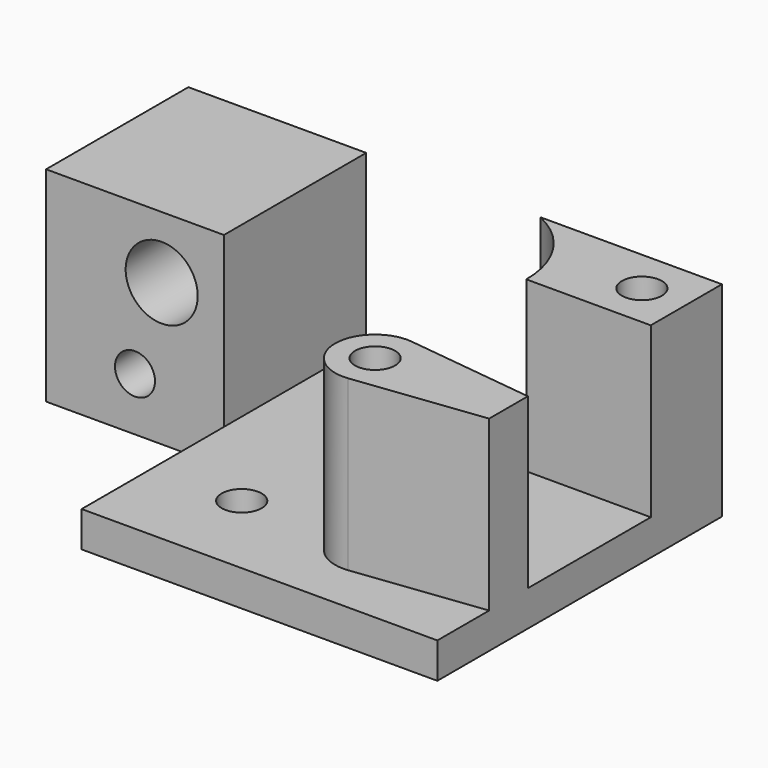
from build123d import *

# Parameters (mm, degrees)
SKETCH_R        = 2.25
PAD_DEPTH       = 23
POCKET_DEPTH    = 19
SKETCH002_R     = 4.05
SKETCH002_R_2   = 2.25
POCKET001_DEPTH = 20.001
SKETCH003_R     = 2.25
POCKET002_DEPTH = 10
SKETCH004_R     = 3.75
POCKET003_DEPTH = 10
SKETCH005_R     = 3.75
POCKET004_DEPTH = 10


with BuildPart() as part:
    # Sketch → Pad (new body)
    with BuildSketch(Plane.XY):
        Polygon((0, -20), (40, -20), (40, 20), (-20, 20), (-20, 0), (0, 0), align=None)
        with Locations((15, 8)):
            Circle(SKETCH_R, mode=Mode.SUBTRACT)
        with Locations((10, -10)):
            Circle(SKETCH_R, mode=Mode.SUBTRACT)
        with Locations((25, -10)):
            Circle(SKETCH_R, mode=Mode.SUBTRACT)
    extrude(amount=PAD_DEPTH)

    # Sketch001 → Pocket (cut)
    with BuildSketch(Plane.XY.offset(23)):
        with BuildLine():
            Line((46, 10), (26, 10))
            ThreePointArc((26, 10), (22.778175, 17.778175), (15, 21))
            Line((15, 21), (0, 21))
            Line((0, 21), (0, -23))
            Line((0, -23), (46, -23))
            Line((46, -23), (46, -12))
            Line((25.538775, -14.46763), (46, -12))
            ThreePointArc((25.538775, -5.53237), (20.5, -10), (25.538775, -14.46763))
            Line((25.538775, -5.53237), (46, -8))
            Line((46, -8), (46, 10))
        make_face()
    extrude(amount=-POCKET_DEPTH, mode=Mode.SUBTRACT)

    # Sketch002 → Pocket001 (cut, through all)
    with BuildSketch(Plane.XZ):
        with Locations((-7, 16)):
            Circle(SKETCH002_R)
        with Locations((-10, 6)):
            Circle(SKETCH002_R_2)
    extrude(amount=-POCKET001_DEPTH, mode=Mode.SUBTRACT)

    # Sketch003 → Pocket002 (cut)
    with BuildSketch(Plane.XY.offset(23)):
        with Locations((35, 15)):
            Circle(SKETCH003_R)
    extrude(amount=-POCKET002_DEPTH, mode=Mode.SUBTRACT)

    # Sketch004 → Pocket003 (cut)
    with BuildSketch(Plane(origin=(0, 20, 0), x_dir=(-1, 0, 0), z_dir=(0, 1, 0))):
        with Locations((10, 6)):
            Circle(SKETCH004_R)
    extrude(amount=-POCKET003_DEPTH, mode=Mode.SUBTRACT)

    # Sketch005 → Pocket004 (cut)
    with BuildSketch(Plane(origin=(0, 0, 0), x_dir=(1, 0, 0), z_dir=(0, 0, -1))):
        with Locations((25, 10)):
            Circle(SKETCH005_R)
    extrude(amount=-POCKET004_DEPTH, mode=Mode.SUBTRACT)


solid = part.part
